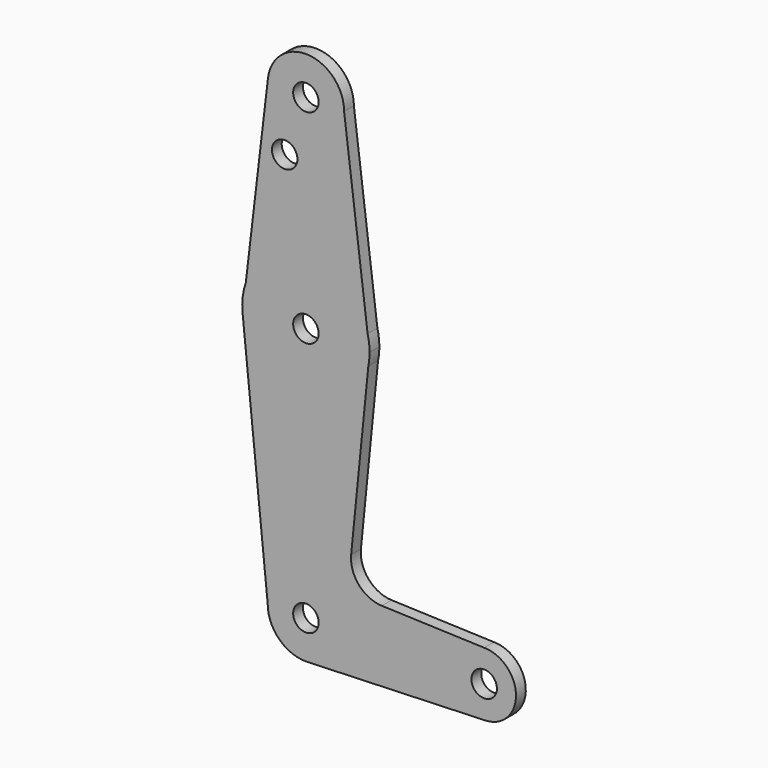
from build123d import *

# Parameters (mm, degrees)
F0_R     = 3.175
F1_DEPTH = 3.048


with BuildPart() as f1:
    # F0 (on Front) → F1 (new body)
    with BuildSketch(Plane.XZ):
        with BuildLine():
            ThreePointArc((15.5606435644, 60.3564356436), (15.7962153946, 61.9203784605), (15.875, 63.5))
            Line((15.875, 63.5), (15.5606435644, 60.3564356436))
        make_face()
        with BuildLine():
            Line((-15.7942028036, 61.9003804205), (-14.9842264132, 68.7429556358))
            ThreePointArc((-14.9842264132, 68.7429556358), (-15.7649337188, 65.3661430393), (-15.7942028036, 61.9003804205))
        make_face()
        with BuildLine():
            ThreePointArc((15.875, 63.5), (15.7524112928, 65.4690514116), (15.3865384615, 67.4076923077))
            Line((15.3865384615, 67.4076923077), (15.875, 63.5))
        make_face()
        with BuildLine():
            Line((0.6773435479, -9.500885786), (0, -9.525))
            ThreePointArc((0, -9.525), (0.3388863295, -9.5189695375), (0.6773435479, -9.500885786))
        make_face()
        with BuildLine():
            ThreePointArc((-9.4589602313, 115.4196858236), (-0.5608158331, 104.7915242756), (9.525, 114.3))
            ThreePointArc((9.525, 114.3), (0.5608158331, 123.8084757244), (-9.4589602313, 115.4196858236))
        make_face()
        with Locations((0, 114.3)):
            Circle(F0_R, mode=Mode.SUBTRACT)
        with BuildLine():
            ThreePointArc((52.3875, 0), (50.0626600757, 5.6126600757), (44.45, 7.9375))
            ThreePointArc((44.45, 7.9375), (36.5137564458, -0.1412249921), (44.7324052746, -7.9324746146))
            ThreePointArc((44.7324052746, -7.9324746146), (50.1616327839, -5.5119104847), (52.3875, 0))
        make_face()
        with Locations((44.45, 0)):
            Circle(F0_R, mode=Mode.SUBTRACT)
        with BuildLine():
            Line((15.3865384615, 67.4076923077), (9.525, 114.3))
            ThreePointArc((9.525, 114.3), (-0.5608158331, 104.7915242756), (-9.4589602313, 115.4196858236))
            Line((-9.4589602313, 115.4196858236), (-14.9842264132, 68.7429556358))
            ThreePointArc((-14.9842264132, 68.7429556358), (0.6972774089, 79.3596793541), (15.3865384615, 67.4076923077))
        make_face()
        with Locations((-5.2915778942, 100.0252)):
            Circle(F0_R, mode=Mode.SUBTRACT)
        with BuildLine():
            ThreePointArc((15.5606435644, 60.3564356436), (-0.7807553062, 47.6442109578), (-15.7942028036, 61.9003804205))
            Line((-15.7942028036, 61.9003804205), (-9.525, 0))
            ThreePointArc((-9.525, 0), (0, 9.525), (9.525, 0))
            ThreePointArc((9.525, 0), (6.9705567315, -6.4912990883), (0.6773435479, -9.500885786))
            Line((0.6773435479, -9.500885786), (44.7324052746, -7.9324746146))
            ThreePointArc((44.7324052746, -7.9324746146), (36.5137564458, -0.1412249921), (44.45, 7.9375))
            Line((44.45, 7.9375), (18.9098309362, 8.8531650928))
            ThreePointArc((18.9098309362, 8.8531650928), (13.2053461582, 11.5701077328), (11.2839335034, 17.5893350338))
            Line((11.2839335034, 17.5893350338), (15.5606435644, 60.3564356436))
        make_face()
        with BuildLine():
            ThreePointArc((9.525, 0), (0, 9.525), (-9.525, 0))
            ThreePointArc((-9.525, 0), (-6.7351920908, -6.7351920908), (0, -9.525))
            Line((0, -9.525), (0.6773435479, -9.500885786))
            ThreePointArc((0.6773435479, -9.500885786), (6.9705567315, -6.4912990883), (9.525, 0))
        make_face()
        Circle(F0_R, mode=Mode.SUBTRACT)
        with BuildLine():
            Line((15.875, 63.5), (15.3865384615, 67.4076923077))
            ThreePointArc((15.3865384615, 67.4076923077), (0.6972774089, 79.3596793541), (-14.9842264132, 68.7429556358))
            Line((-14.9842264132, 68.7429556358), (-15.7942028036, 61.9003804205))
            ThreePointArc((-15.7942028036, 61.9003804205), (-0.7807553062, 47.6442109578), (15.5606435644, 60.3564356436))
            Line((15.5606435644, 60.3564356436), (15.875, 63.5))
        make_face()
        with Locations((0, 63.5)):
            Circle(F0_R, mode=Mode.SUBTRACT)
    extrude(amount=F1_DEPTH)


solid = f1.part
